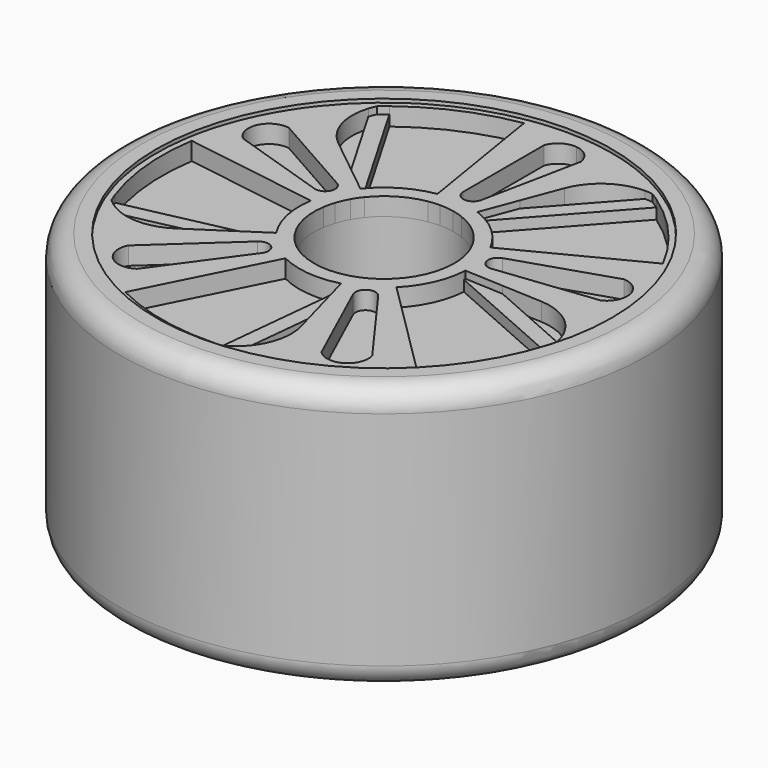
from build123d import *

# Parameters (mm, degrees)
F0_W     = 4.4
F0_H     = 6.18
F0_W_2   = 0.4
F0_H_2   = 0.6
F0_W_3   = 0.6
F3_DEPTH = 0.5
F4_DEPTH = 0.3


with BuildPart() as f1:
    # F0 (on Front) → F1 (revolve)
    with BuildSketch(Plane.XZ):
        with Locations((4.15, 3.69)):
            Rectangle(F0_W, F0_H)
        with Locations((6.55, 3.69)):
            Rectangle(F0_W_2, F0_H)
        with Locations((6.55, 7.08)):
            Rectangle(F0_W_2, F0_H_2)
        with BuildLine():
            Line((6.75, 7.38), (6.75, 6.78))
            Line((6.75, 6.78), (7.35, 6.78))
            ThreePointArc((7.35, 6.78), (7.1742640687, 7.2042640687), (6.75, 7.38))
        make_face()
        with Locations((7.05, 3.69)):
            Rectangle(F0_W_3, F0_H)
        with BuildLine():
            Line((6.75, 0.6), (6.75, 0))
            ThreePointArc((6.75, 0), (7.1742640687, 0.1757359313), (7.35, 0.6))
            Line((7.35, 0.6), (6.75, 0.6))
        make_face()
        with Locations((6.55, 0.3)):
            Rectangle(F0_W_2, F0_H_2)
        with Locations((4.15, 0.3)):
            Rectangle(F0_W, F0_H_2)
    revolve(axis=Axis((0, 0, 3.39), (0, 0, 1)))

    # F2 (on face) → F3 (join)
    with BuildSketch(Plane.XY.offset(6.78)):
        with BuildLine():
            Line((-6.1134412108, 0.9460845096), (-2.3289975761, 0.3604236066))
            ThreePointArc((-2.3289975761, 0.3604236066), (-2.2925757788, 0.5461054699), (-2.2413750687, 0.7282669065))
            Line((-2.2413750687, 0.7282669065), (-2.6200566499, 0.8513080108))
            Line((-2.6200566499, 0.8513080108), (-5.2989401916, 1.7217300374))
            Line((-5.2989401916, 1.7217300374), (-5.8834388041, 1.911645149))
            ThreePointArc((-5.8834388041, 1.911645149), (-6.0178367675, 1.4334852553), (-6.1134412108, 0.9460845096))
        make_face()
        with BuildLine():
            Line((-2.6200566499, 0.8513080108), (-2.2413750687, 0.7282669065))
            ThreePointArc((-2.2413750687, 0.7282669065), (-2.1571023516, 0.9492335491), (-2.0511083867, 1.16064175))
            Line((-2.0511083867, 1.16064175), (-2.3976441582, 1.3567327449))
            ThreePointArc((-2.3976441582, 1.3567327449), (-2.2803144711, 1.003452988), (-2.6200566499, 0.8513080108))
        make_face()
        with BuildLine():
            Line((-2.3976441582, 1.3567327449), (-2.0511083867, 1.16064175))
            ThreePointArc((-2.0511083867, 1.16064175), (-1.951384468, 1.3214513021), (-1.839081005, 1.4737421561))
            Line((-1.839081005, 1.4737421561), (-2.6798412705, 2.1474829229))
            Line((-2.6798412705, 2.1474829229), (-3.5540234312, 2.8480062271))
            Line((-3.5540234312, 2.8480062271), (-4.8274475342, 3.8684608879))
            ThreePointArc((-4.8274475342, 3.8684608879), (-5.1222355691, 3.4687089979), (-5.3840032585, 3.0465961743))
            Line((-5.3840032585, 3.0465961743), (-4.8491214858, 2.743927568))
            Line((-4.8491214858, 2.743927568), (-2.3976441582, 1.3567327449))
        make_face()
        with BuildLine():
            ThreePointArc((-4.0630599267, 4.5276897224), (-4.0254029571, 4.6331973025), (-3.9802331814, 4.735713585))
            ThreePointArc((-3.9802331814, 4.735713585), (-4.4251374789, 4.322892276), (-4.8274475342, 3.8684608879))
            Line((-4.8274475342, 3.8684608879), (-3.5540234312, 2.8480062271))
            ThreePointArc((-3.5540234312, 2.8480062271), (-4.0687849266, 3.6089799552), (-4.0630599267, 4.5276897224))
        make_face()
        with BuildLine():
            ThreePointArc((0, 2.3567212151), (0.2361934671, 2.3448555461), (0.4700085506, 2.3093780219))
            Line((0.4700085506, 2.3093780219), (0.5494167266, 2.6995485754))
            ThreePointArc((0.5494167266, 2.6995485754), (0.2496845789, 2.4787919632), (0, 2.7548905928))
            Line((0, 2.7548905928), (0, 2.3567212151))
        make_face()
        with BuildLine():
            Line((0.8333047963, 2.2044813454), (1.2142611326, 3.2122892212))
            Line((1.2142611326, 3.2122892212), (1.6103612421, 4.2601594676))
            Line((1.6103612421, 4.2601594676), (2.187361608, 5.7865955909))
            Line((2.187361608, 5.7865955909), (1.1979805733, 5.8862546288))
            Line((1.1979805733, 5.8862546288), (1.1111692469, 5.4597088372))
            Line((1.1111692469, 5.4597088372), (0.5494167266, 2.6995485754))
            Line((0.5494167266, 2.6995485754), (0.4700085506, 2.3093780219))
            ThreePointArc((0.4700085506, 2.3093780219), (0.6537639087, 2.2642278237), (0.8333047963, 2.2044813454))
        make_face()
        with BuildLine():
            ThreePointArc((-0.3769166112, 2.3263853408), (-0.1890677108, 2.3491250045), (0, 2.3567212151))
            Line((0, 2.3567212151), (0, 2.7548905928))
            Line((0, 2.7548905928), (0, 5.57163544))
            Line((0, 5.57163544), (0, 6.0069256213))
            Line((0, 6.0069256213), (-0.9893773904, 6.1065842921))
            Line((-0.9893773904, 6.1065842921), (-0.3769166112, 2.3263853408))
        make_face()
        with BuildLine():
            ThreePointArc((0, 5.57163544), (0.2353125197, 5.8616462798), (0.5989921088, 5.9465899415))
            Line((0.5989921088, 5.9465899415), (0, 6.0069256213))
            Line((0, 6.0069256213), (0, 5.57163544))
        make_face()
        with BuildLine():
            Line((1.1979805733, 5.8862546288), (1.2337366394, 6.0619413756))
            ThreePointArc((1.2337366394, 6.0619413756), (0.6199898575, 6.1550671738), (0, 6.1862136511))
            Line((0, 6.1862136511), (0, 6.0069256213))
            Line((0, 6.0069256213), (0.5989921088, 5.9465899415))
            Line((0.5989921088, 5.9465899415), (1.1979805733, 5.8862546288))
        make_face()
        with BuildLine():
            Line((0, 6.0069256213), (0, 6.1862136511))
            ThreePointArc((0, 6.1862136511), (-0.4962883374, 6.1662741768), (-0.9893773904, 6.1065842921))
            Line((-0.9893773904, 6.1065842921), (0, 6.0069256213))
        make_face()
        with BuildLine():
            Line((1.1979805733, 5.8862546288), (2.187361608, 5.7865955909))
            ThreePointArc((2.187361608, 5.7865955909), (1.7160804555, 5.9434255448), (1.2337366394, 6.0619413756))
            Line((1.2337366394, 6.0619413756), (1.1979805733, 5.8862546288))
        make_face()
        with BuildLine():
            Line((1.1111692469, 5.4597088372), (1.1979805733, 5.8862546288))
            Line((1.1979805733, 5.8862546288), (0.5989921088, 5.9465899415))
            ThreePointArc((0.5989921088, 5.9465899415), (0.9384230563, 5.7908218427), (1.1111692469, 5.4597088372))
        make_face()
        with BuildLine():
            Line((2.187361608, 5.7865955909), (1.6103612421, 4.2601594676))
            ThreePointArc((1.6103612421, 4.2601594676), (2.1750202148, 4.9848805563), (3.0505342477, 5.2633326889))
            ThreePointArc((3.0505342477, 5.2633326889), (3.1625145628, 5.2601224178), (3.2739715697, 5.2488426818))
            ThreePointArc((3.2739715697, 5.2488426818), (2.7438721849, 5.5444030129), (2.187361608, 5.7865955909))
        make_face()
        with BuildLine():
            ThreePointArc((6.1464944348, 0.6998896337), (6.0454041462, 1.3123749642), (5.8834388041, 1.911645149))
            Line((5.8834388041, 1.911645149), (5.2989401916, 1.7217300374))
            ThreePointArc((5.2989401916, 1.7217300374), (5.8406414944, 1.2679236622), (5.5358618476, 0.6303580621))
            Line((5.5358618476, 0.6303580621), (6.1464944348, 0.6998896337))
        make_face()
        with BuildLine():
            Line((2.7372023692, 0.311680029), (2.341589646, 0.2666323604))
            ThreePointArc((2.341589646, 0.2666323604), (2.3529352819, 0.1335306894), (2.3567212151, 0))
            ThreePointArc((2.3567212151, 0), (2.3560637427, -0.0556644077), (2.3540916922, -0.1112977571))
            Line((2.3540916922, -0.1112977571), (3.4302959217, -0.1621790025))
            Line((3.4302959217, -0.1621790025), (4.549281413, -0.2150828787))
            Line((4.549281413, -0.2150828787), (6.1793113536, -0.2921481336))
            ThreePointArc((6.1793113536, -0.2921481336), (6.184487836, -0.1461148296), (6.1862136511, 0))
            ThreePointArc((6.1862136511, 0), (6.1762758648, 0.350507887), (6.1464944348, 0.6998896337))
            Line((6.1464944348, 0.6998896337), (5.5358618476, 0.6303580621))
            Line((5.5358618476, 0.6303580621), (2.7372023692, 0.311680029))
        make_face()
        with BuildLine():
            ThreePointArc((6.0036588896, -1.491750406), (6.1209437499, -0.8962627667), (6.1793113536, -0.2921481336))
            Line((6.1793113536, -0.2921481336), (4.549281413, -0.2150828787))
            ThreePointArc((4.549281413, -0.2150828787), (5.4130213455, -0.5281543415), (5.9483937757, -1.2747712266))
            ThreePointArc((5.9483937757, -1.2747712266), (5.9799444468, -1.3822628633), (6.0036588896, -1.491750406))
        make_face()
        with BuildLine():
            Line((4.3897833115, -4.3587890308), (1.6723469384, -1.6605392508))
            ThreePointArc((1.6723469384, -1.6605392508), (1.5337400246, -1.7893508384), (1.385245974, -1.906627514))
            Line((1.385245974, -1.906627514), (1.6192840621, -2.2287533072))
            Line((1.6192840621, -2.2287533072), (3.2749251428, -4.5075477574))
            Line((3.2749251428, -4.5075477574), (3.6361651516, -5.0047519746))
            ThreePointArc((3.6361651516, -5.0047519746), (4.0259507218, -4.6969096353), (4.3897833115, -4.3587890308))
        make_face()
        with BuildLine():
            ThreePointArc((2.565005833, -5.6293857936), (3.1162753805, -5.3439748399), (3.6361651516, -5.0047519746))
            Line((3.6361651516, -5.0047519746), (3.2749251428, -4.5075477574))
            ThreePointArc((3.2749251428, -4.5075477574), (3.0107245409, -5.1629701933), (2.310181532, -5.0701261297))
            Line((2.310181532, -5.0701261297), (2.565005833, -5.6293857936))
        make_face()
        with BuildLine():
            Line((2.6200566499, 0.8513080108), (2.2413750687, 0.7282669065))
            ThreePointArc((2.2413750687, 0.7282669065), (2.3030779421, 0.4999668771), (2.341589646, 0.2666323604))
            Line((2.341589646, 0.2666323604), (2.7372023692, 0.311680029))
            ThreePointArc((2.7372023692, 0.311680029), (2.4346280273, 0.5285246964), (2.6200566499, 0.8513080108))
        make_face()
        with BuildLine():
            Line((1.6192840621, -2.2287533072), (1.385245974, -1.906627514))
            ThreePointArc((1.385245974, -1.906627514), (1.1871869799, -2.0358590228), (0.9771734383, -2.1445901607))
            Line((0.9771734383, -2.1445901607), (1.1422673717, -2.5069197239))
            ThreePointArc((1.1422673717, -2.5069197239), (1.2549982919, -2.152145737), (1.6192840621, -2.2287533072))
        make_face()
        with BuildLine():
            Line((1.1422673717, -2.5069197239), (0.9771734383, -2.1445901607))
            ThreePointArc((0.9771734383, -2.1445901607), (0.8019736102, -2.2160715725), (0.621603882, -2.2732671422))
            Line((0.621603882, -2.2732671422), (0.9057783384, -3.312521357))
            Line((0.9057783384, -3.312521357), (1.2012492955, -4.393087997))
            Line((1.2012492955, -4.393087997), (1.6316628356, -5.9671530672))
            ThreePointArc((1.6316628356, -5.9671530672), (2.1051196311, -5.8170190541), (2.565005833, -5.6293857936))
            Line((2.565005833, -5.6293857936), (2.310181532, -5.0701261297))
            Line((2.310181532, -5.0701261297), (1.1422673717, -2.5069197239))
        make_face()
        with BuildLine():
            ThreePointArc((0.6257752841, -6.0511846348), (0.5332943561, -6.1144078487), (0.436493681, -6.1707951354))
            ThreePointArc((0.436493681, -6.1707951354), (1.0390790958, -6.0983238656), (1.6316628356, -5.9671530672))
            Line((1.6316628356, -5.9671530672), (1.2012492955, -4.393087997))
            ThreePointArc((1.2012492955, -4.393087997), (1.1704109586, -5.3112978907), (0.6257752841, -6.0511846348))
        make_face()
        with BuildLine():
            Line((-1.6192840621, -2.2287533072), (-1.385245974, -1.906627514))
            ThreePointArc((-1.385245974, -1.906627514), (-1.5693560376, -1.7581969495), (-1.7376632482, -1.5920619717))
            Line((-1.7376632482, -1.5920619717), (-2.0312423093, -1.8610416254))
            ThreePointArc((-2.0312423093, -1.8610416254), (-1.6589964271, -1.8586239106), (-1.6192840621, -2.2287533072))
        make_face()
        with BuildLine():
            ThreePointArc((-4.5612336487, -4.1790413899), (-4.1194400427, -4.6151330503), (-3.6361651516, -5.0047519746))
            Line((-3.6361651516, -5.0047519746), (-3.2749251428, -4.5075477574))
            ThreePointArc((-3.2749251428, -4.5075477574), (-3.9799113973, -4.4588147246), (-4.1080911406, -3.7638683375))
            Line((-4.1080911406, -3.7638683375), (-4.5612336487, -4.1790413899))
        make_face()
        with BuildLine():
            Line((-2.7889370661, -5.5218719089), (-1.0624830505, -2.1036313016))
            ThreePointArc((-1.0624830505, -2.1036313016), (-1.2278220423, -2.0116132626), (-1.385245974, -1.906627514))
            Line((-1.385245974, -1.906627514), (-1.6192840621, -2.2287533072))
            Line((-1.6192840621, -2.2287533072), (-3.2749251428, -4.5075477574))
            Line((-3.2749251428, -4.5075477574), (-3.6361651516, -5.0047519746))
            ThreePointArc((-3.6361651516, -5.0047519746), (-3.2229393236, -5.2803315666), (-2.7889370661, -5.5218719089))
        make_face()
        with BuildLine():
            Line((-2.0312423093, -1.8610416254), (-1.7376632482, -1.5920619717))
            ThreePointArc((-1.7376632482, -1.5920619717), (-1.859785835, -1.4475260045), (-1.9699193655, -1.2936586023))
            Line((-1.9699193655, -1.2936586023), (-2.8704941222, -1.8850717846))
            Line((-2.8704941222, -1.8850717846), (-3.8068685194, -2.4999948191))
            Line((-3.8068685194, -2.4999948191), (-5.170888263, -3.395755278))
            ThreePointArc((-5.170888263, -3.395755278), (-4.8817961356, -3.7996454871), (-4.5612336487, -4.1790413899))
            Line((-4.5612336487, -4.1790413899), (-4.1080911406, -3.7638683375))
            Line((-4.1080911406, -3.7638683375), (-2.0312423093, -1.8610416254))
        make_face()
        with BuildLine():
            ThreePointArc((-5.5616433808, -2.4650665499), (-5.6503504087, -2.3966490083), (-5.7338909589, -2.3220107253))
            ThreePointArc((-5.7338909589, -2.3220107253), (-5.4787575518, -2.8727086566), (-5.170888263, -3.395755278))
            Line((-5.170888263, -3.395755278), (-3.8068685194, -2.4999948191))
            ThreePointArc((-3.8068685194, -2.4999948191), (-4.6896675923, -2.7544082793), (-5.5616433808, -2.4650665499))
        make_face()
        with BuildLine():
            Line((-1.0624830505, -2.1036313016), (-0.8791205066, -1.7405881577))
            ThreePointArc((-0.8791205066, -1.7405881577), (-1.0159254167, -1.6644505243), (-1.146181242, -1.577583139))
            Line((-1.146181242, -1.577583139), (-1.385245974, -1.906627514))
            ThreePointArc((-1.385245974, -1.906627514), (-1.2278220423, -2.0116132626), (-1.0624830505, -2.1036313016))
        make_face()
        with BuildLine():
            Line((-1.385245974, -1.906627514), (-1.146181242, -1.577583139))
            ThreePointArc((-1.146181242, -1.577583139), (-1.2985177261, -1.4547686122), (-1.437778602, -1.3173050868))
            Line((-1.437778602, -1.3173050868), (-1.7376632482, -1.5920619717))
            ThreePointArc((-1.7376632482, -1.5920619717), (-1.5693560376, -1.7581969495), (-1.385245974, -1.906627514))
        make_face()
        with BuildLine():
            Line((-1.7376632482, -1.5920619717), (-1.437778602, -1.3173050868))
            ThreePointArc((-1.437778602, -1.3173050868), (-1.5388253625, -1.1977130306), (-1.6299521293, -1.0703999515))
            Line((-1.6299521293, -1.0703999515), (-1.855935329, -1.218804559))
            Line((-1.855935329, -1.218804559), (-1.9699193655, -1.2936586023))
            ThreePointArc((-1.9699193655, -1.2936586023), (-1.859785835, -1.4475260045), (-1.7376632482, -1.5920619717))
        make_face()
        with BuildLine():
            ThreePointArc((-1.6299521293, -1.0703999515), (-1.9056145691, -0.4136823829), (-1.9270608863, 0.2982219654))
            Line((-1.9270608863, 0.2982219654), (-2.3289975761, 0.3604236066))
            ThreePointArc((-2.3289975761, 0.3604236066), (-2.3085020899, -0.4742920902), (-1.9982370419, -1.2494733331))
            Line((-1.9982370419, -1.2494733331), (-1.855935329, -1.218804559))
            Line((-1.855935329, -1.218804559), (-1.6299521293, -1.0703999515))
        make_face()
        with BuildLine():
            Line((-2.3289975761, 0.3604236066), (-1.9270608863, 0.2982219654))
            ThreePointArc((-1.9270608863, 0.2982219654), (-1.8969247359, 0.4518589893), (-1.8545602068, 0.602583139))
            Line((-1.8545602068, 0.602583139), (-2.2413750687, 0.7282669065))
            ThreePointArc((-2.2413750687, 0.7282669065), (-2.2925757788, 0.5461054699), (-2.3289975761, 0.3604236066))
        make_face()
        with BuildLine():
            Line((-2.2413750687, 0.7282669065), (-1.8545602068, 0.602583139))
            ThreePointArc((-1.8545602068, 0.602583139), (-1.7848312132, 0.7854155209), (-1.6971296089, 0.9603390498))
            Line((-1.6971296089, 0.9603390498), (-2.0511083867, 1.16064175))
            ThreePointArc((-2.0511083867, 1.16064175), (-2.1571023516, 0.9492335491), (-2.2413750687, 0.7282669065))
        make_face()
        with BuildLine():
            Line((-0.3118686195, 1.9248994686), (-0.3769166112, 2.3263853408))
            ThreePointArc((-0.3769166112, 2.3263853408), (-1.1644449603, 2.0489516393), (-1.8058089601, 1.5143278659))
            Line((-1.8058089601, 1.5143278659), (-1.7326675751, 1.3884680669))
            Line((-1.7326675751, 1.3884680669), (-1.5216937569, 1.219404818))
            ThreePointArc((-1.5216937569, 1.219404818), (-0.9823026125, 1.6845122669), (-0.3118686195, 1.9248994686))
        make_face()
        with BuildLine():
            Line((0, 1.95), (0, 2.3567212151))
            ThreePointArc((0, 2.3567212151), (-0.1890677108, 2.3491250045), (-0.3769166112, 2.3263853408))
            Line((-0.3769166112, 2.3263853408), (-0.3118686195, 1.9248994686))
            ThreePointArc((-0.3118686195, 1.9248994686), (-0.1564385443, 1.9437147378), (0, 1.95))
        make_face()
        with BuildLine():
            Line((0.3888948204, 1.9108272603), (0.4700085506, 2.3093780219))
            ThreePointArc((0.4700085506, 2.3093780219), (0.2361934671, 2.3448555461), (0, 2.3567212151))
            Line((0, 2.3567212151), (0, 1.95))
            ThreePointArc((0, 1.95), (0.1954313721, 1.9401820994), (0.3888948204, 1.9108272603))
        make_face()
        with BuildLine():
            Line((0.7850878764, 2.0769250167), (0.8333047963, 2.2044813454))
            ThreePointArc((0.8333047963, 2.2044813454), (0.6537639087, 2.2642278237), (0.4700085506, 2.3093780219))
            Line((0.4700085506, 2.3093780219), (0.3888948204, 1.9108272603))
            ThreePointArc((0.3888948204, 1.9108272603), (0.5409378138, 1.8734690501), (0.6894936671, 1.8240335751))
            Line((0.6894936671, 1.8240335751), (0.7850878764, 2.0769250167))
        make_face()
        with BuildLine():
            Line((0.8821857274, 2.1853794243), (0.7850878764, 2.0769250167))
            Line((0.7850878764, 2.0769250167), (0.6894936671, 1.8240335751))
            ThreePointArc((0.6894936671, 1.8240335751), (1.2985181674, 1.4547682183), (1.7343154794, 0.8914313311))
            Line((1.7343154794, 0.8914313311), (2.0960502995, 1.077361605))
            ThreePointArc((2.0960502995, 1.077361605), (1.5888355264, 1.7406138446), (0.8821857274, 2.1853794243))
        make_face()
        with BuildLine():
            ThreePointArc((2.2413750687, 0.7282669065), (2.1757255073, 0.9057336267), (2.0960502995, 1.077361605))
            Line((2.0960502995, 1.077361605), (1.7343154794, 0.8914313311))
            ThreePointArc((1.7343154794, 0.8914313311), (1.8002403984, 0.7494227831), (1.8545602068, 0.602583139))
            Line((1.8545602068, 0.602583139), (2.2413750687, 0.7282669065))
        make_face()
        with BuildLine():
            ThreePointArc((2.341589646, 0.2666323604), (2.3030779421, 0.4999668771), (2.2413750687, 0.7282669065))
            Line((2.2413750687, 0.7282669065), (1.8545602068, 0.602583139))
            ThreePointArc((1.8545602068, 0.602583139), (1.9056144436, 0.4136829609), (1.9374798259, 0.2206171436))
            Line((1.9374798259, 0.2206171436), (2.341589646, 0.2666323604))
        make_face()
        with BuildLine():
            Line((2.341589646, 0.2666323604), (1.9374798259, 0.2206171436))
            ThreePointArc((1.9374798259, 0.2206171436), (1.9468674403, 0.1104860611), (1.95, 0))
            ThreePointArc((1.95, 0), (1.9494559937, -0.0460578851), (1.9478242782, -0.092090072))
            Line((1.9478242782, -0.092090072), (2.2178785669, -0.1048578145))
            Line((2.2178785669, -0.1048578145), (2.3540916922, -0.1112977571))
            ThreePointArc((2.3540916922, -0.1112977571), (2.3560637427, -0.0556644077), (2.3567212151, 0))
            ThreePointArc((2.3567212151, 0), (2.3529352819, 0.1335306894), (2.341589646, 0.2666323604))
        make_face()
        with BuildLine():
            ThreePointArc((1.9478242782, -0.092090072), (1.7848309749, -0.7854160623), (1.383734533, -1.3739646074))
            Line((1.383734533, -1.3739646074), (1.6723469384, -1.6605392508))
            ThreePointArc((1.6723469384, -1.6605392508), (2.1463993182, -0.9731931221), (2.351029724, -0.1636891033))
            Line((2.351029724, -0.1636891033), (2.2178785669, -0.1048578145))
            Line((2.2178785669, -0.1048578145), (1.9478242782, -0.092090072))
        make_face()
        with BuildLine():
            Line((1.6723469384, -1.6605392508), (1.383734533, -1.3739646074))
            ThreePointArc((1.383734533, -1.3739646074), (1.2690482984, -1.4805459859), (1.146181242, -1.577583139))
            Line((1.146181242, -1.577583139), (1.385245974, -1.906627514))
            ThreePointArc((1.385245974, -1.906627514), (1.5337400246, -1.7893508384), (1.6723469384, -1.6605392508))
        make_face()
        with BuildLine():
            Line((1.385245974, -1.906627514), (1.146181242, -1.577583139))
            ThreePointArc((1.146181242, -1.577583139), (0.9823031235, -1.684511969), (0.8085335645, -1.774478367))
            Line((0.8085335645, -1.774478367), (0.9771734383, -2.1445901607))
            ThreePointArc((0.9771734383, -2.1445901607), (1.1871869799, -2.0358590228), (1.385245974, -1.906627514))
        make_face()
        with BuildLine():
            Line((0.9771734383, -2.1445901607), (0.8085335645, -1.774478367))
            ThreePointArc((0.8085335645, -1.774478367), (0.663569594, -1.8336235693), (0.514327941, -1.8809483696))
            Line((0.514327941, -1.8809483696), (0.5856364608, -2.1417307101))
            Line((0.5856364608, -2.1417307101), (0.621603882, -2.2732671422))
            ThreePointArc((0.621603882, -2.2732671422), (0.8019736102, -2.2160715725), (0.9771734383, -2.1445901607))
        make_face()
        with BuildLine():
            ThreePointArc((0.514327941, -1.8809483696), (-0.1954319607, -1.9401820401), (-0.8791205066, -1.7405881577))
            Line((-0.8791205066, -1.7405881577), (-1.0624830505, -2.1036313016))
            ThreePointArc((-1.0624830505, -2.1036313016), (-0.2622877943, -2.3420802716), (0.5708305506, -2.2865448538))
            Line((0.5708305506, -2.2865448538), (0.5856364608, -2.1417307101))
            Line((0.5856364608, -2.1417307101), (0.514327941, -1.8809483696))
        make_face()
        with BuildLine():
            Line((-2.0511083867, 1.16064175), (-1.6971296089, 0.9603390498))
            ThreePointArc((-1.6971296089, 0.9603390498), (-1.6146159708, 1.0933962077), (-1.5216937569, 1.219404818))
            Line((-1.5216937569, 1.219404818), (-1.7326675751, 1.3884680669))
            Line((-1.7326675751, 1.3884680669), (-1.839081005, 1.4737421561))
            ThreePointArc((-1.839081005, 1.4737421561), (-1.951384468, 1.3214513021), (-2.0511083867, 1.16064175))
        make_face()
        with BuildLine():
            Line((-1.9699193655, -1.2936586023), (-1.855935329, -1.218804559))
            Line((-1.855935329, -1.218804559), (-1.9982370419, -1.2494733331))
            ThreePointArc((-1.9982370419, -1.2494733331), (-1.9842012002, -1.2716447943), (-1.9699193655, -1.2936586023))
        make_face()
        with BuildLine():
            Line((-1.7326675751, 1.3884680669), (-1.8058089601, 1.5143278659))
            ThreePointArc((-1.8058089601, 1.5143278659), (-1.8225579592, 1.4941276289), (-1.839081005, 1.4737421561))
            Line((-1.839081005, 1.4737421561), (-1.7326675751, 1.3884680669))
        make_face()
        with BuildLine():
            ThreePointArc((0.8821857274, 2.1853794243), (0.857798435, 2.1950664525), (0.8333047963, 2.2044813454))
            Line((0.8333047963, 2.2044813454), (0.7850878764, 2.0769250167))
            Line((0.7850878764, 2.0769250167), (0.8821857274, 2.1853794243))
        make_face()
        with BuildLine():
            Line((2.3540916922, -0.1112977571), (2.2178785669, -0.1048578145))
            Line((2.2178785669, -0.1048578145), (2.351029724, -0.1636891033))
            ThreePointArc((2.351029724, -0.1636891033), (2.3527065475, -0.1375019537), (2.3540916922, -0.1112977571))
        make_face()
        with BuildLine():
            Line((0.621603882, -2.2732671422), (0.5856364608, -2.1417307101))
            Line((0.5856364608, -2.1417307101), (0.5708305506, -2.2865448538))
            ThreePointArc((0.5708305506, -2.2865448538), (0.5962541769, -2.2800473334), (0.621603882, -2.2732671422))
        make_face()
        with BuildLine():
            ThreePointArc((-3.7742043827, 4.9014916724), (-2.4568251633, 5.6774333509), (-0.9893773904, 6.1065842921))
            Line((-0.9893773904, 6.1065842921), (-1.0155721712, 6.2682623721))
            ThreePointArc((-1.0155721712, 6.2682623721), (-2.1489534257, 5.9753241899), (-3.209302195, 5.4793137728))
            ThreePointArc((-3.209302195, 5.4793137728), (-3.4095890814, 5.3569769736), (-3.6052184188, 5.227322465))
            ThreePointArc((-3.6052184188, 5.227322465), (-3.7215727907, 5.1143003176), (-3.8254947892, 4.9897508741))
            Line((-3.8254947892, 4.9897508741), (-3.7742043827, 4.9014916724))
        make_face()
        with BuildLine():
            ThreePointArc((-0.9893773904, 6.1065842921), (-0.4962883374, 6.1662741768), (0, 6.1862136511))
            Line((0, 6.1862136511), (0, 6.35))
            ThreePointArc((0, 6.35), (-0.50942808, 6.3295326077), (-1.0155721712, 6.2682623721))
            Line((-1.0155721712, 6.2682623721), (-0.9893773904, 6.1065842921))
        make_face()
        with BuildLine():
            ThreePointArc((0, 6.1862136511), (0.6199898575, 6.1550671738), (1.2337366394, 6.0619413756))
            Line((1.2337366394, 6.0619413756), (1.2664010818, 6.2224374886))
            ThreePointArc((1.2664010818, 6.2224374886), (0.6364047247, 6.3180288877), (0, 6.35))
            Line((0, 6.35), (0, 6.1862136511))
        make_face()
        with BuildLine():
            ThreePointArc((1.2337366394, 6.0619413756), (1.7160804555, 5.9434255448), (2.187361608, 5.7865955909))
            Line((2.187361608, 5.7865955909), (2.2452742492, 5.939801642))
            ThreePointArc((2.2452742492, 5.939801642), (1.761515445, 6.1007838297), (1.2664010818, 6.2224374886))
            Line((1.2664010818, 6.2224374886), (1.2337366394, 6.0619413756))
        make_face()
        with BuildLine():
            Line((3.5633921817, 5.1801795651), (3.4953023001, 5.1041258965))
            ThreePointArc((3.4953023001, 5.1041258965), (4.6403592566, 4.0910029708), (5.5019723558, 2.8279921381))
            Line((5.5019723558, 2.8279921381), (5.6476427149, 2.9028661294))
            ThreePointArc((5.6476427149, 2.9028661294), (5.0188078791, 3.8902528803), (4.2194081501, 4.7454288387))
            ThreePointArc((4.2194081501, 4.7454288387), (4.0411668884, 4.8981088371), (3.8574053333, 5.0440979466))
            ThreePointArc((3.8574053333, 5.0440979466), (3.7139594053, 5.119831766), (3.5633921817, 5.1801795651))
        make_face()
        with BuildLine():
            Line((2.2452742492, 5.939801642), (2.187361608, 5.7865955909))
            ThreePointArc((2.187361608, 5.7865955909), (2.7438721849, 5.5444030129), (3.2739715697, 5.2488426818))
            ThreePointArc((3.2739715697, 5.2488426818), (3.4203306829, 5.2214609795), (3.5633921817, 5.1801795651))
            ThreePointArc((3.5633921817, 5.1801795651), (3.7139594053, 5.119831766), (3.8574053333, 5.0440979466))
            ThreePointArc((3.8574053333, 5.0440979466), (3.0840307714, 5.5507886107), (2.2452742492, 5.939801642))
        make_face()
        with BuildLine():
            Line((6.0392088785, 1.9622579143), (5.8834388041, 1.911645149))
            ThreePointArc((5.8834388041, 1.911645149), (6.0454041462, 1.3123749642), (6.1464944348, 0.6998896337))
            Line((6.1464944348, 0.6998896337), (6.3092291768, 0.7184199293))
            ThreePointArc((6.3092291768, 0.7184199293), (6.2054624191, 1.3471214369), (6.0392088785, 1.9622579143))
        make_face()
        with BuildLine():
            Line((6.3092291768, 0.7184199293), (6.1464944348, 0.6998896337))
            ThreePointArc((6.1464944348, 0.6998896337), (6.1762758648, 0.350507887), (6.1862136511, 0))
            ThreePointArc((6.1862136511, 0), (6.184487836, -0.1461148296), (6.1793113536, -0.2921481336))
            Line((6.1793113536, -0.2921481336), (6.3429149571, -0.299883055))
            ThreePointArc((6.3429149571, -0.299883055), (6.3482284922, -0.1499833695), (6.35, 0))
            ThreePointArc((6.35, 0), (6.3397991006, 0.3597879427), (6.3092291768, 0.7184199293))
        make_face()
        with BuildLine():
            Line((6.3429149571, -0.299883055), (6.1793113536, -0.2921481336))
            ThreePointArc((6.1793113536, -0.2921481336), (6.1209437499, -0.8962627667), (6.0036588896, -1.491750406))
            ThreePointArc((6.0036588896, -1.491750406), (6.0228447965, -1.6394076057), (6.0277922728, -1.788223835))
            ThreePointArc((6.0277922728, -1.788223835), (6.016925936, -1.9500702696), (5.9892260231, -2.1098984914))
            ThreePointArc((5.9892260231, -2.1098984914), (6.2321315984, -1.2177995487), (6.3429149571, -0.299883055))
        make_face()
        with BuildLine():
            ThreePointArc((5.9344200051, -1.7469683855), (5.3247249038, -3.1490544669), (4.3897833115, -4.3587890308))
            Line((4.3897833115, -4.3587890308), (4.5060073253, -4.4741924393))
            ThreePointArc((4.5060073253, -4.4741924393), (5.250747278, -3.571015685), (5.8170398442, -2.5464774593))
            ThreePointArc((5.8170398442, -2.5464774593), (5.9071675726, -2.3297792317), (5.9892260231, -2.1098984914))
            ThreePointArc((5.9892260231, -2.1098984914), (6.016925936, -1.9500702696), (6.0277922728, -1.788223835))
            Line((6.0277922728, -1.788223835), (5.9344200051, -1.7469683855))
        make_face()
        with BuildLine():
            Line((4.5060073253, -4.4741924393), (4.3897833115, -4.3587890308))
            ThreePointArc((4.3897833115, -4.3587890308), (4.0259507218, -4.6969096353), (3.6361651516, -5.0047519746))
            Line((3.6361651516, -5.0047519746), (3.7324363521, -5.1372579143))
            ThreePointArc((3.7324363521, -5.1372579143), (4.1325418948, -4.8212651335), (4.5060073253, -4.4741924393))
        make_face()
        with BuildLine():
            Line((3.7324363521, -5.1372579143), (3.6361651516, -5.0047519746))
            ThreePointArc((3.6361651516, -5.0047519746), (3.1162753805, -5.3439748399), (2.565005833, -5.6293857936))
            Line((2.565005833, -5.6293857936), (2.6329169922, -5.7784295541))
            ThreePointArc((2.6329169922, -5.7784295541), (3.1987819662, -5.4854620528), (3.7324363521, -5.1372579143))
        make_face()
        with BuildLine():
            Line((2.6329169922, -5.7784295541), (2.565005833, -5.6293857936))
            ThreePointArc((2.565005833, -5.6293857936), (2.1051196311, -5.8170190541), (1.6316628356, -5.9671530672))
            Line((1.6316628356, -5.9671530672), (1.6748627821, -6.1251395626))
            ThreePointArc((1.6748627821, -6.1251395626), (2.1608548317, -5.9710305975), (2.6329169922, -5.7784295541))
        make_face()
        with BuildLine():
            ThreePointArc((1.6316628356, -5.9671530672), (1.0390790958, -6.0983238656), (0.436493681, -6.1707951354))
            ThreePointArc((0.436493681, -6.1707951354), (0.3019921103, -6.2346706012), (0.16198832, -6.2853626747))
            ThreePointArc((0.16198832, -6.2853626747), (0.004705331, -6.325041473), (-0.1558600847, -6.3480869271))
            ThreePointArc((-0.1558600847, -6.3480869271), (0.7676383787, -6.3034301233), (1.6748627821, -6.1251395626))
            Line((1.6748627821, -6.1251395626), (1.6316628356, -5.9671530672))
        make_face()
        with BuildLine():
            ThreePointArc((0.1723709666, -6.183811736), (-1.3494982853, -6.0372256637), (-2.7889370661, -5.5218719089))
            Line((-2.7889370661, -5.5218719089), (-2.8627770343, -5.6680691291))
            ThreePointArc((-2.8627770343, -5.6680691291), (-1.773667595, -6.097261948), (-0.6242798125, -6.3192384601))
            ThreePointArc((-0.6242798125, -6.3192384601), (-0.3903365513, -6.3379915886), (-0.1558600847, -6.3480869271))
            ThreePointArc((-0.1558600847, -6.3480869271), (0.004705331, -6.325041473), (0.16198832, -6.2853626747))
            Line((0.16198832, -6.2853626747), (0.1723709666, -6.183811736))
        make_face()
        with BuildLine():
            Line((-2.8627770343, -5.6680691291), (-2.7889370661, -5.5218719089))
            ThreePointArc((-2.7889370661, -5.5218719089), (-3.2229393236, -5.2803315666), (-3.6361651516, -5.0047519746))
            Line((-3.6361651516, -5.0047519746), (-3.7324363521, -5.1372579143))
            ThreePointArc((-3.7324363521, -5.1372579143), (-3.3082699465, -5.4201337586), (-2.8627770343, -5.6680691291))
        make_face()
        with BuildLine():
            Line((-3.7324363521, -5.1372579143), (-3.6361651516, -5.0047519746))
            ThreePointArc((-3.6361651516, -5.0047519746), (-4.1194400427, -4.6151330503), (-4.5612336487, -4.1790413899))
            Line((-4.5612336487, -4.1790413899), (-4.681996986, -4.2896857954))
            ThreePointArc((-4.681996986, -4.2896857954), (-4.2285064413, -4.7373234295), (-3.7324363521, -5.1372579143))
        make_face()
        with BuildLine():
            Line((-4.681996986, -4.2896857954), (-4.5612336487, -4.1790413899))
            ThreePointArc((-4.5612336487, -4.1790413899), (-4.8817961356, -3.7996454871), (-5.170888263, -3.395755278))
            Line((-5.170888263, -3.395755278), (-5.3077928313, -3.4856613806))
            ThreePointArc((-5.3077928313, -3.4856613806), (-5.0110466934, -3.900244997), (-4.681996986, -4.2896857954))
        make_face()
        with BuildLine():
            ThreePointArc((-5.170888263, -3.395755278), (-5.4787575518, -2.8727086566), (-5.7338909589, -2.3220107253))
            ThreePointArc((-5.7338909589, -2.3220107253), (-5.836203408, -2.2138307345), (-5.9276779853, -2.0963439295))
            ThreePointArc((-5.9276779853, -2.0963439295), (-6.0140178815, -1.959020341), (-6.0855528529, -1.8134349931))
            ThreePointArc((-6.0855528529, -1.8134349931), (-5.7577049892, -2.6779345132), (-5.3077928313, -3.4856613806))
            Line((-5.3077928313, -3.4856613806), (-5.170888263, -3.395755278))
        make_face()
        with BuildLine():
            ThreePointArc((-5.8278888891, -2.0748374474), (-6.1587607119, -0.582156191), (-6.1134412108, 0.9460845096))
            Line((-6.1134412108, 0.9460845096), (-6.2753008347, 0.971133067))
            ThreePointArc((-6.2753008347, 0.971133067), (-6.3469341364, -0.1972994371), (-6.2028659868, -1.359026692))
            ThreePointArc((-6.2028659868, -1.359026692), (-6.1484088284, -1.5873149904), (-6.0855528529, -1.8134349931))
            ThreePointArc((-6.0855528529, -1.8134349931), (-6.0140178815, -1.959020341), (-5.9276779853, -2.0963439295))
            Line((-5.9276779853, -2.0963439295), (-5.8278888891, -2.0748374474))
        make_face()
        with BuildLine():
            Line((-6.2753008347, 0.971133067), (-6.1134412108, 0.9460845096))
            ThreePointArc((-6.1134412108, 0.9460845096), (-6.0178367675, 1.4334852553), (-5.8834388041, 1.911645149))
            Line((-5.8834388041, 1.911645149), (-6.0392088785, 1.9622579143))
            ThreePointArc((-6.0392088785, 1.9622579143), (-6.1771651657, 1.4714382471), (-6.2753008347, 0.971133067))
        make_face()
        with BuildLine():
            Line((-6.0392088785, 1.9622579143), (-5.8834388041, 1.911645149))
            ThreePointArc((-5.8834388041, 1.911645149), (-5.6622293415, 2.4916657523), (-5.3840032585, 3.0465961743))
            Line((-5.3840032585, 3.0465961743), (-5.5265502648, 3.1272579315))
            ThreePointArc((-5.5265502648, 3.1272579315), (-5.8121426686, 2.5576351577), (-6.0392088785, 1.9622579143))
        make_face()
        with BuildLine():
            ThreePointArc((-5.3840032585, 3.0465961743), (-5.1222355691, 3.4687089979), (-4.8274475342, 3.8684608879))
            Line((-4.8274475342, 3.8684608879), (-4.9552591571, 3.9708823561))
            ThreePointArc((-4.9552591571, 3.9708823561), (-5.2578520074, 3.5605466249), (-5.5265502648, 3.1272579315))
            Line((-5.5265502648, 3.1272579315), (-5.3840032585, 3.0465961743))
        make_face()
        with BuildLine():
            ThreePointArc((-4.8274475342, 3.8684608879), (-4.4251374789, 4.322892276), (-3.9802331814, 4.735713585))
            ThreePointArc((-3.9802331814, 4.735713585), (-3.9089641817, 4.8664479619), (-3.8254947892, 4.9897508741))
            ThreePointArc((-3.8254947892, 4.9897508741), (-3.7215727907, 5.1143003176), (-3.6052184188, 5.227322465))
            ThreePointArc((-3.6052184188, 5.227322465), (-4.3260957593, 4.6483755745), (-4.9552591571, 3.9708823561))
            Line((-4.9552591571, 3.9708823561), (-4.8274475342, 3.8684608879))
        make_face()
        with BuildLine():
            Line((5.5019723558, 2.8279921381), (2.0960502995, 1.077361605))
            ThreePointArc((2.0960502995, 1.077361605), (2.1757255073, 0.9057336267), (2.2413750687, 0.7282669065))
            Line((2.2413750687, 0.7282669065), (2.6200566499, 0.8513080108))
            Line((2.6200566499, 0.8513080108), (5.2989401916, 1.7217300374))
            Line((5.2989401916, 1.7217300374), (5.8834388041, 1.911645149))
            ThreePointArc((5.8834388041, 1.911645149), (5.7111137067, 2.3774817699), (5.5019723558, 2.8279921381))
        make_face()
        with BuildLine():
            Line((5.6476427149, 2.9028661294), (5.5019723558, 2.8279921381))
            ThreePointArc((5.5019723558, 2.8279921381), (5.7111137067, 2.3774817699), (5.8834388041, 1.911645149))
            Line((5.8834388041, 1.911645149), (6.0392088785, 1.9622579143))
            ThreePointArc((6.0392088785, 1.9622579143), (5.8623212975, 2.4404280373), (5.6476427149, 2.9028661294))
        make_face()
        with BuildLine():
            ThreePointArc((-5.3840032585, 3.0465961743), (-5.6622293415, 2.4916657523), (-5.8834388041, 1.911645149))
            Line((-5.8834388041, 1.911645149), (-5.2989401916, 1.7217300374))
            ThreePointArc((-5.2989401916, 1.7217300374), (-5.4704450567, 2.407271144), (-4.8491214858, 2.743927568))
            Line((-4.8491214858, 2.743927568), (-5.3840032585, 3.0465961743))
        make_face()
        with BuildLine():
            ThreePointArc((-3.9802331814, 4.735713585), (-3.8781047017, 4.8197036485), (-3.7742043827, 4.9014916724))
            Line((-3.7742043827, 4.9014916724), (-3.8254947892, 4.9897508741))
            ThreePointArc((-3.8254947892, 4.9897508741), (-3.9089641817, 4.8664479619), (-3.9802331814, 4.735713585))
        make_face()
        with BuildLine():
            ThreePointArc((3.5633921817, 5.1801795651), (3.4203306829, 5.2214609795), (3.2739715697, 5.2488426818))
            ThreePointArc((3.2739715697, 5.2488426818), (3.3854103028, 5.1776670827), (3.4953023001, 5.1041258965))
            Line((3.4953023001, 5.1041258965), (3.5633921817, 5.1801795651))
        make_face()
        with BuildLine():
            ThreePointArc((6.0036588896, -1.491750406), (5.9704033347, -1.619729409), (5.9344200051, -1.7469683855))
            Line((5.9344200051, -1.7469683855), (6.0277922728, -1.788223835))
            ThreePointArc((6.0277922728, -1.788223835), (6.0228447965, -1.6394076057), (6.0036588896, -1.491750406))
        make_face()
        with BuildLine():
            ThreePointArc((0.436493681, -6.1707951354), (0.3045018846, -6.17871491), (0.1723709666, -6.183811736))
            Line((0.1723709666, -6.183811736), (0.16198832, -6.2853626747))
            ThreePointArc((0.16198832, -6.2853626747), (0.3019921103, -6.2346706012), (0.436493681, -6.1707951354))
        make_face()
        with BuildLine():
            ThreePointArc((-5.7338909589, -2.3220107253), (-5.7822108203, -2.1989264122), (-5.8278888891, -2.0748374474))
            Line((-5.8278888891, -2.0748374474), (-5.9276779853, -2.0963439295))
            ThreePointArc((-5.9276779853, -2.0963439295), (-5.836203408, -2.2138307345), (-5.7338909589, -2.3220107253))
        make_face()
    extrude(amount=F3_DEPTH)

    # F2 (on face) → F4 (join)
    with BuildSketch(Plane.XY.offset(6.78)):
        with BuildLine():
            ThreePointArc((-1.839081005, 1.4737421561), (-1.8225579592, 1.4941276289), (-1.8058089601, 1.5143278659))
            Line((-1.8058089601, 1.5143278659), (-3.7742043827, 4.9014916724))
            ThreePointArc((-3.7742043827, 4.9014916724), (-3.8781047017, 4.8197036485), (-3.9802331814, 4.735713585))
            ThreePointArc((-3.9802331814, 4.735713585), (-4.0254029571, 4.6331973025), (-4.0630599267, 4.5276897224))
            Line((-4.0630599267, 4.5276897224), (-2.6798412705, 2.1474829229))
            Line((-2.6798412705, 2.1474829229), (-1.839081005, 1.4737421561))
        make_face()
        with BuildLine():
            Line((3.0505342477, 5.2633326889), (1.2142611326, 3.2122892212))
            Line((1.2142611326, 3.2122892212), (0.8333047963, 2.2044813454))
            ThreePointArc((0.8333047963, 2.2044813454), (0.857798435, 2.1950664525), (0.8821857274, 2.1853794243))
            Line((0.8821857274, 2.1853794243), (3.4953023001, 5.1041258965))
            ThreePointArc((3.4953023001, 5.1041258965), (3.3854103028, 5.1776670827), (3.2739715697, 5.2488426818))
            ThreePointArc((3.2739715697, 5.2488426818), (3.1625145628, 5.2601224178), (3.0505342477, 5.2633326889))
        make_face()
        with BuildLine():
            ThreePointArc((2.3540916922, -0.1112977571), (2.3527065475, -0.1375019537), (2.351029724, -0.1636891033))
            Line((2.351029724, -0.1636891033), (5.9344200051, -1.7469683855))
            ThreePointArc((5.9344200051, -1.7469683855), (5.9704033347, -1.619729409), (6.0036588896, -1.491750406))
            ThreePointArc((6.0036588896, -1.491750406), (5.9799444468, -1.3822628633), (5.9483937757, -1.2747712266))
            Line((5.9483937757, -1.2747712266), (3.4302959217, -0.1621790025))
            Line((3.4302959217, -0.1621790025), (2.3540916922, -0.1112977571))
        make_face()
        with BuildLine():
            ThreePointArc((0.621603882, -2.2732671422), (0.5962541769, -2.2800473334), (0.5708305506, -2.2865448538))
            Line((0.5708305506, -2.2865448538), (0.1723709666, -6.183811736))
            ThreePointArc((0.1723709666, -6.183811736), (0.3045018846, -6.17871491), (0.436493681, -6.1707951354))
            ThreePointArc((0.436493681, -6.1707951354), (0.5332943561, -6.1144078487), (0.6257752841, -6.0511846348))
            Line((0.6257752841, -6.0511846348), (0.9057783384, -3.312521357))
            Line((0.9057783384, -3.312521357), (0.621603882, -2.2732671422))
        make_face()
        with BuildLine():
            ThreePointArc((-1.9699193655, -1.2936586023), (-1.9842012002, -1.2716447943), (-1.9982370419, -1.2494733331))
            Line((-1.9982370419, -1.2494733331), (-5.8278888891, -2.0748374474))
            ThreePointArc((-5.8278888891, -2.0748374474), (-5.7822108203, -2.1989264122), (-5.7338909589, -2.3220107253))
            ThreePointArc((-5.7338909589, -2.3220107253), (-5.6503504087, -2.3966490083), (-5.5616433808, -2.4650665499))
            Line((-5.5616433808, -2.4650665499), (-2.8704941222, -1.8850717846))
            Line((-2.8704941222, -1.8850717846), (-1.9699193655, -1.2936586023))
        make_face()
    extrude(amount=F4_DEPTH)


solid = f1.part
